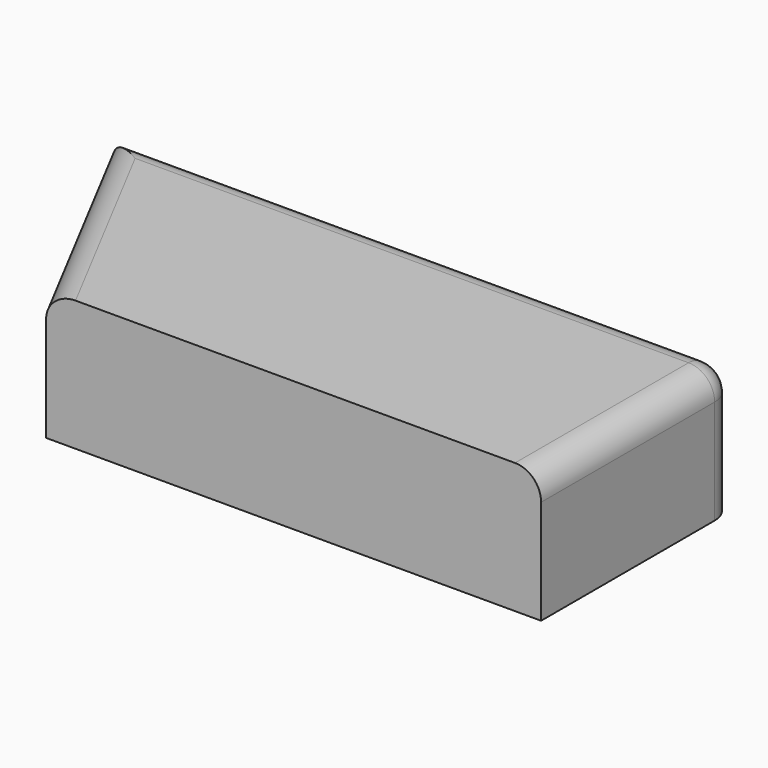
from build123d import *

# Parameters (mm, degrees)
F1_DEPTH = 25.4
F2_R     = 5.08


with BuildPart() as f1:
    # F0 (on Top) → F1 (new body)
    with BuildSketch(Plane.XY):
        Polygon((-24.859279, 47.311023), (0, 0), (96.377738, 0), (96.377738, 47.311023), align=None)
    extrude(amount=F1_DEPTH)

    # F2
    f2_edges = [f1.edges().sort_by_distance(p)[0] for p in [
        (-12.42964, 23.655511, 25.4),
        (35.759229, 47.311023, 25.4),
        (96.377738, 23.655511, 25.4),
        (96.377738, 47.311023, 12.7),
    ]]
    fillet(f2_edges, radius=F2_R)


solid = f1.part
